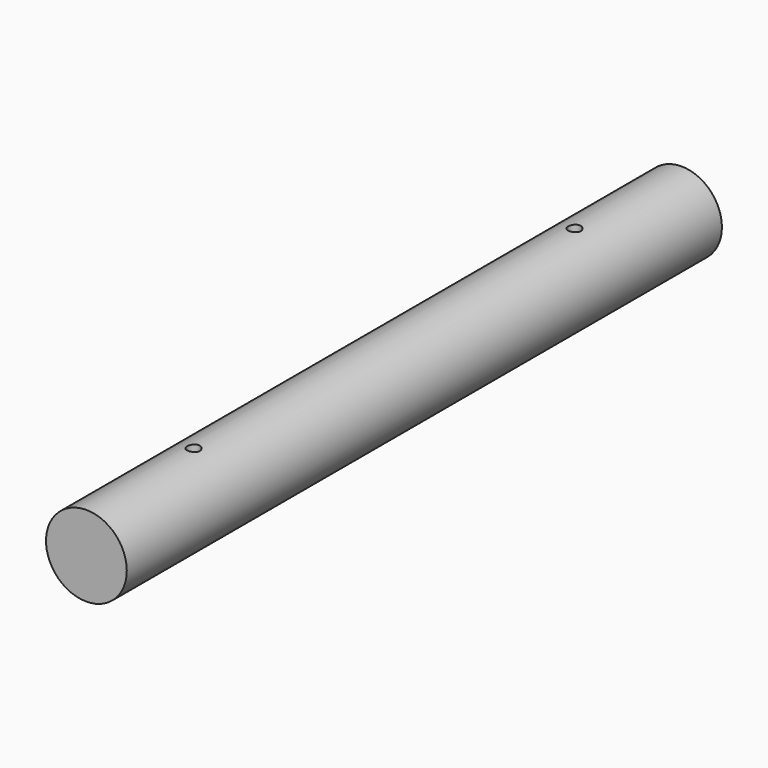
from build123d import *

# Parameters (mm, degrees)
F0_R     = 19
F1_DEPTH = 350
F3_R     = 3
F4_DEPTH = 38.001


with BuildPart() as f1:
    # F0 (on Front) → F1 (new body)
    with BuildSketch(Plane.XZ):
        Circle(F0_R)
    extrude(amount=F1_DEPTH)

    # F3 (on offset) → F4 (cut, through all)
    with BuildSketch(Plane.XY.offset(19)):
        with Locations((0, -63)):
            Circle(F3_R)
        with Locations((0, -287)):
            Circle(F3_R)
    extrude(amount=-F4_DEPTH, mode=Mode.SUBTRACT)


solid = f1.part
